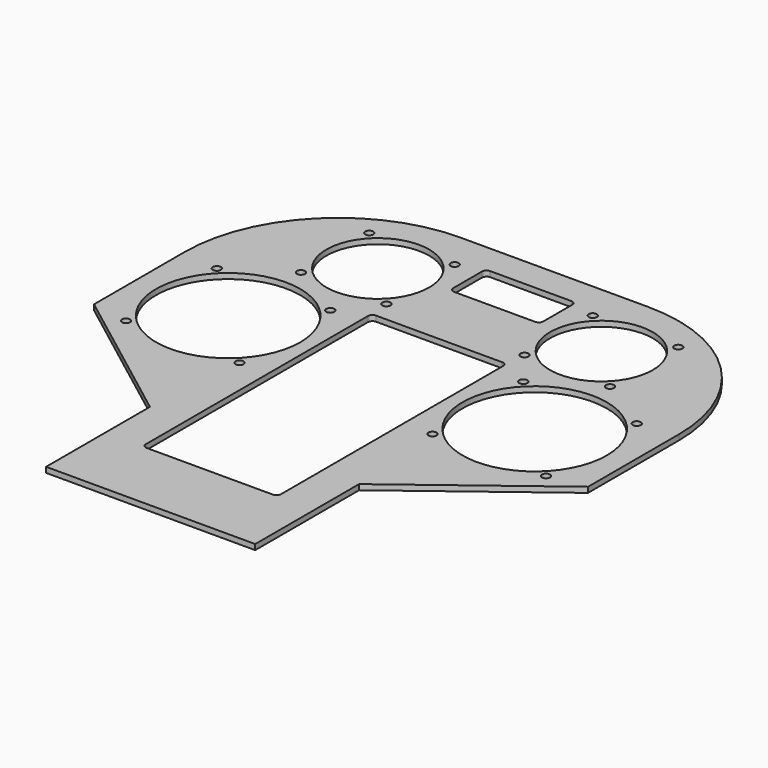
from build123d import *

# Parameters (mm, degrees)
PAD_DEPTH         = 3
SKETCH001_R       = 28.5
SKETCH001_R_2     = 2.25
POCKET_DEPTH      = 3
SKETCH_R          = 40
SKETCH_R_2        = 2.25
POCKET001_DEPTH   = 3
COPYSKETCH003_R   = 40
COPYSKETCH003_R_2 = 2.25
POCKET002_DEPTH   = 5
SKETCH003_R       = 28.5
SKETCH003_R_2     = 2.25
POCKET004_DEPTH   = 5
POCKET005_DEPTH   = 5
POCKET006_DEPTH   = 5


with BuildPart() as part:
    # Sketch002 → Pad (new body)
    with BuildSketch(Plane.XY):
        with BuildLine():
            Line((0, 132), (0, 195))
            ThreePointArc((85, 280), (24.895924, 255.104076), (0, 195))
            Line((85, 280), (189, 280))
            ThreePointArc((274, 195), (249.104076, 255.104076), (189, 280))
            Line((274, 195), (274, 132))
            Line((274, 132), (195, 72))
            Line((195, 72), (195, 0))
            Line((195, 0), (79, 0))
            Line((79, 0), (79, 72))
            Line((79, 72), (0, 132))
        make_face()
    extrude(amount=PAD_DEPTH)

    # Sketch001 → Pocket (cut)
    with BuildSketch(Plane.XY):
        with Locations((75, 235)):
            Circle(SKETCH001_R)
        with Locations((98.688077, 258.688077)):
            Circle(SKETCH001_R_2)
        with Locations((51.311923, 258.688077)):
            Circle(SKETCH001_R_2)
        with Locations((51.311923, 211.311923)):
            Circle(SKETCH001_R_2)
        with Locations((98.688077, 211.311923)):
            Circle(SKETCH001_R_2)
    extrude(amount=POCKET_DEPTH, mode=Mode.SUBTRACT)

    # Sketch → Pocket001 (cut)
    with BuildSketch(Plane.XY):
        with Locations((222, 160)):
            Circle(SKETCH_R)
        with Locations((253.466252, 191.466252)):
            Circle(SKETCH_R_2)
        with Locations((190.533748, 191.466252)):
            Circle(SKETCH_R_2)
        with Locations((190.533748, 128.533748)):
            Circle(SKETCH_R_2)
        with Locations((253.466252, 128.533748)):
            Circle(SKETCH_R_2)
    extrude(amount=POCKET001_DEPTH, mode=Mode.SUBTRACT)

    # CopySketch003 → Pocket002 (cut)
    with BuildSketch(Plane.XY):
        with Locations((52, 160)):
            Circle(COPYSKETCH003_R)
        with Locations((83.466252, 191.466252)):
            Circle(COPYSKETCH003_R_2)
        with Locations((20.533748, 191.466252)):
            Circle(COPYSKETCH003_R_2)
        with Locations((20.533748, 128.533748)):
            Circle(COPYSKETCH003_R_2)
        with Locations((83.466252, 128.533748)):
            Circle(COPYSKETCH003_R_2)
    extrude(amount=POCKET002_DEPTH, mode=Mode.SUBTRACT)

    # Sketch003 → Pocket004 (cut)
    with BuildSketch(Plane.XY):
        with Locations((199, 235)):
            Circle(SKETCH003_R)
        with Locations((222.688077, 258.688077)):
            Circle(SKETCH003_R_2)
        with Locations((175.311923, 258.688077)):
            Circle(SKETCH003_R_2)
        with Locations((175.311923, 211.311923)):
            Circle(SKETCH003_R_2)
        with Locations((222.688077, 211.311923)):
            Circle(SKETCH003_R_2)
    extrude(amount=POCKET004_DEPTH, mode=Mode.SUBTRACT)

    # Sketch004 → Pocket005 (cut)
    with BuildSketch(Plane.XY):
        with BuildLine():
            Line((114.5, 263.5), (159.5, 263.5))
            ThreePointArc((162, 261), (161.267767, 262.767767), (159.5, 263.5))
            Line((162, 261), (162, 241))
            ThreePointArc((159.5, 238.5), (161.267767, 239.232233), (162, 241))
            Line((159.5, 238.5), (114.5, 238.5))
            ThreePointArc((112, 241), (112.732233, 239.232233), (114.5, 238.5))
            Line((112, 241), (112, 261))
            ThreePointArc((114.5, 263.5), (112.732233, 262.767767), (112, 261))
        make_face()
    extrude(amount=POCKET005_DEPTH, mode=Mode.SUBTRACT)

    # CopySketch005 → Pocket006 (cut)
    with BuildSketch(Plane.XY):
        with BuildLine():
            Line((102, 200), (172, 200))
            ThreePointArc((174.5, 197.5), (173.767767, 199.267767), (172, 200))
            Line((174.5, 197.5), (174.5, 43.5))
            ThreePointArc((172, 41), (173.767767, 41.732233), (174.5, 43.5))
            Line((172, 41), (102, 41))
            ThreePointArc((99.5, 43.5), (100.232233, 41.732233), (102, 41))
            Line((99.5, 43.5), (99.5, 197.5))
            ThreePointArc((102, 200), (100.232233, 199.267767), (99.5, 197.5))
        make_face()
    extrude(amount=POCKET006_DEPTH, mode=Mode.SUBTRACT)


solid = part.part
